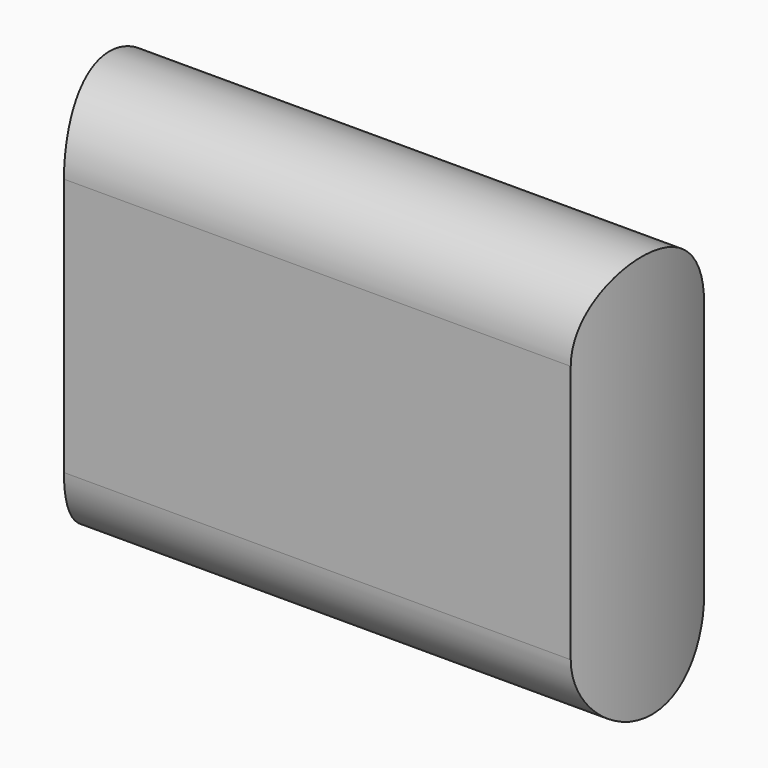
from build123d import *

# Parameters (mm, degrees)
F1_DEPTH = 5
F2_W     = 20
F2_H     = 20
F2_R     = 4
F3_DEPTH = 12.5


with BuildPart() as f1:
    # F0 (on Right) → F1 (new body, symmetric)
    with BuildSketch(Plane.YZ):
        with BuildLine():
            ThreePointArc((-1.45, -1.8), (-0.35, -2.9), (0.75, -1.8))
            Line((0.75, -1.8), (0.75, 2))
            ThreePointArc((0.75, 2), (-0.35, 3.1), (-1.45, 2))
            Line((-1.45, 2), (-1.45, -1.8))
        make_face()
    extrude(amount=F1_DEPTH, both=True)

    # F2 (on Top) → F3 (cut, symmetric)
    with BuildSketch(Plane.XY):
        Rectangle(F2_W, F2_H)
        Circle(F2_R, mode=Mode.SUBTRACT)
    extrude(amount=F3_DEPTH, both=True, mode=Mode.SUBTRACT)


solid = f1.part
